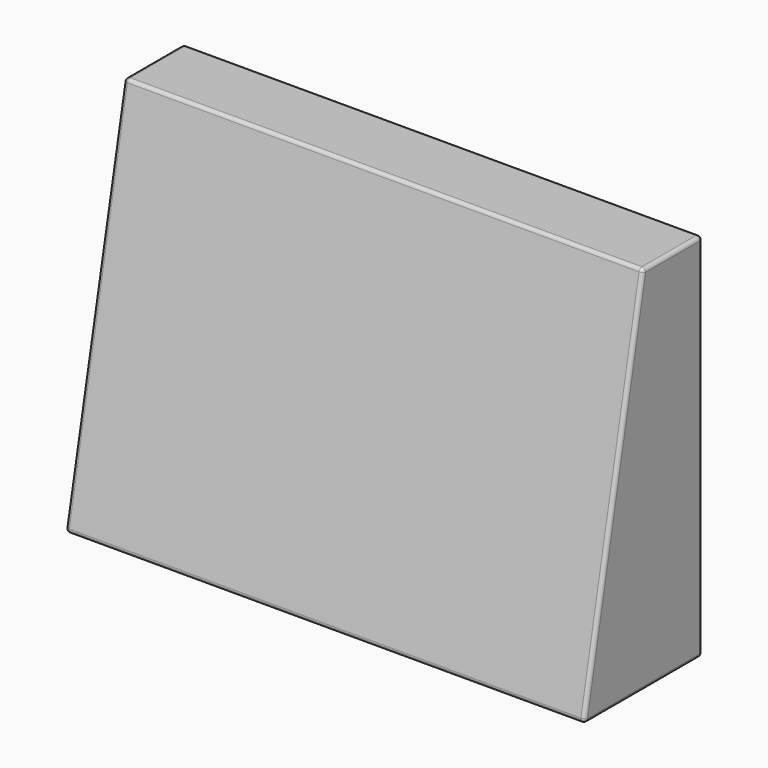
from build123d import *

# Parameters (mm, degrees)
F1_DEPTH = 350
F2_R     = 5


with BuildPart() as f1:
    # F0 (on Right) → F1 (new body, symmetric)
    with BuildSketch(Plane.YZ):
        Polygon((50, 250), (-50, 250), (-150, -250), (50, -250), align=None)
    extrude(amount=F1_DEPTH, both=True)

    # F2
    f2_edges = [f1.edges().sort_by_distance(p)[0] for p in [
        (-350, -100, 0),
        (0, -50, 250),
        (350, -100, 0),
        (0, -150, -250),
        (-350, 0, 250),
        (350, 0, 250),
        (350, -50, -250),
        (350, 50, 0),
        (0, 50, 250),
        (-350, -50, -250),
        (-350, 50, 0),
        (0, 50, -250),
    ]]
    fillet(f2_edges, radius=F2_R)


solid = f1.part
